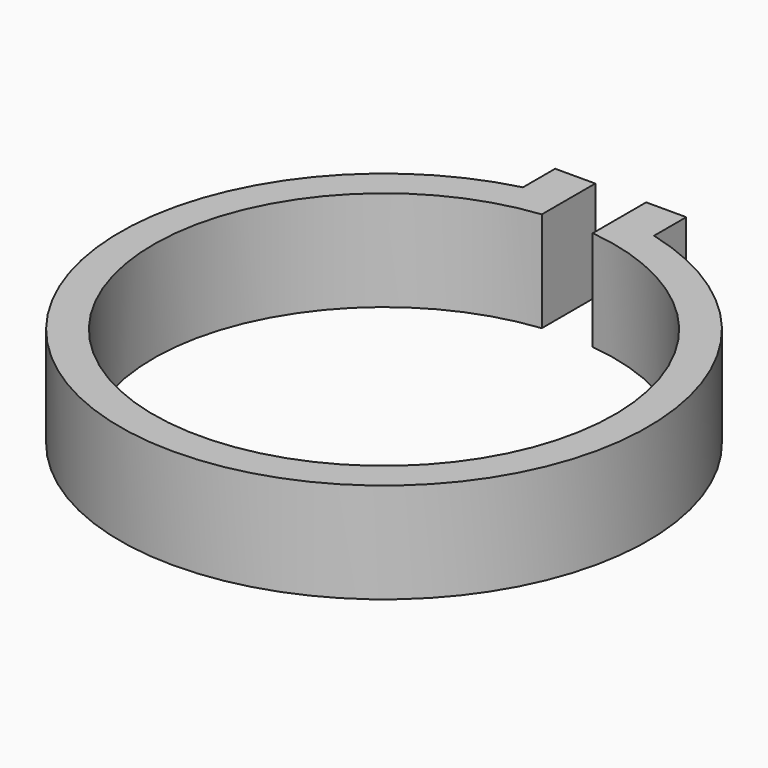
from build123d import *

# Parameters (mm, degrees)
F1_DEPTH = 7.5


with BuildPart() as f1:
    # F0 (on Top) → F1 (new body)
    with BuildSketch(Plane.XY):
        with BuildLine():
            ThreePointArc((1.905, 17.144488), (0, -17.25), (-1.905, 17.144488))
            Line((-1.905, 17.144488), (-1.905, 19.657911))
            Line((-1.905, 19.657911), (-1.905, 22.144488))
            Line((-1.905, 22.144488), (-4.905, 22.144488))
            Line((-4.905, 22.144488), (-4.905, 19.131217))
            ThreePointArc((-4.905, 19.131217), (0, -19.75), (4.905, 19.131217))
            Line((4.905, 19.131217), (4.905, 22.144488))
            Line((4.905, 22.144488), (1.905, 22.144488))
            Line((1.905, 22.144488), (1.905, 19.657911))
            Line((1.905, 19.657911), (1.905, 17.144488))
        make_face()
    extrude(amount=F1_DEPTH)


solid = f1.part
